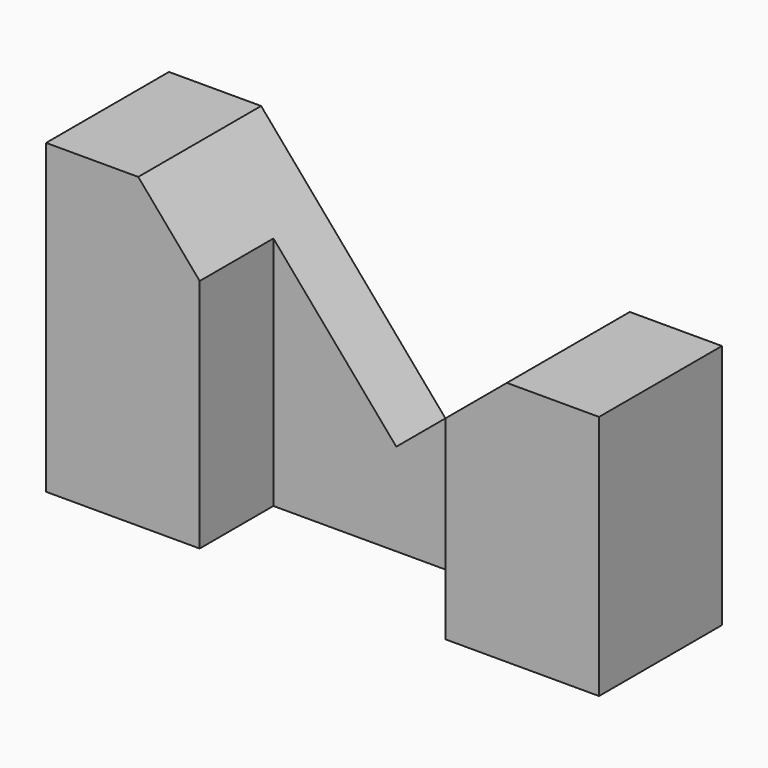
from build123d import *

# Parameters (mm, degrees)
F0_W     = 2286
F0_H     = 1270
F1_DEPTH = 635
F2_W     = 1016
F2_H     = 1270
F3_DEPTH = 381
F5_DEPTH = 635


with BuildPart() as f1:
    # F0 (on Front) → F1 (new body)
    with BuildSketch(Plane.XZ):
        with Locations((1143, 635)):
            Rectangle(F0_W, F0_H)
    extrude(amount=F1_DEPTH)

    # F2 (on face) → F3 (cut)
    with BuildSketch(Plane.XZ.offset(635)):
        with Locations((1143, 635)):
            Rectangle(F2_W, F2_H)
    extrude(amount=-F3_DEPTH, mode=Mode.SUBTRACT)

    # F4 (on face) → F5 (cut)
    with BuildSketch(Plane(origin=(0, 0, 0), x_dir=(-1, 0, 0), z_dir=(0, 1, 0))):
        Polygon((-1143, 381), (-381, 1270), (-2286, 1270), (-2286, 1016), (-1905, 1016), align=None)
    extrude(amount=-F5_DEPTH, mode=Mode.SUBTRACT)


solid = f1.part
